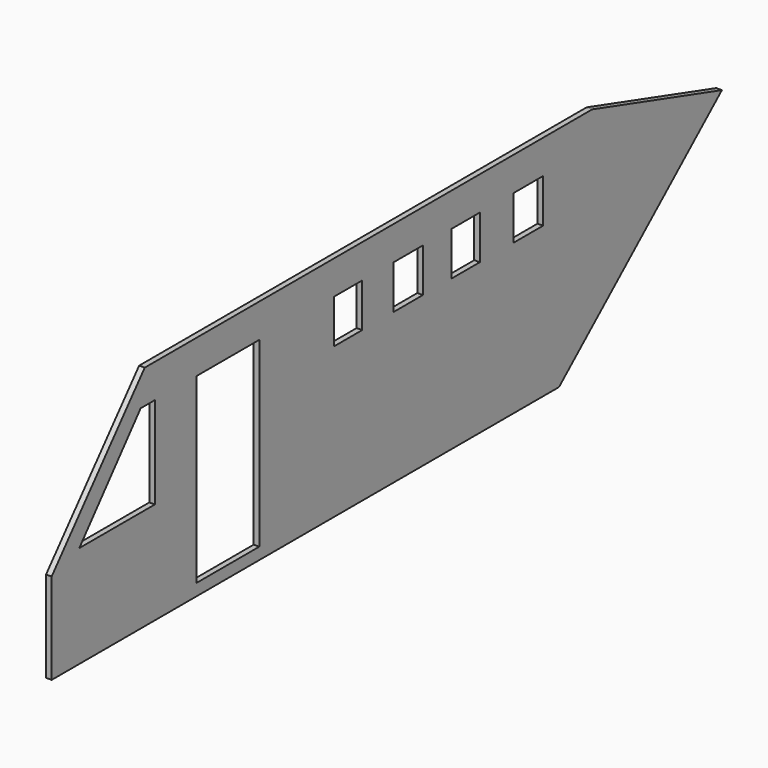
from build123d import *

# Parameters (mm, degrees)
F1_DEPTH = 1.5
F2_W     = 21.121388
F2_H     = 49.146654
F2_W_2   = 9.488664
F2_H_2   = 11.803286
F2_W_3   = 9.919964
F2_W_4   = 9.919956
F3_DEPTH = 1.5


with BuildPart() as f1:
    # F0 (on Right) → F1 (new body)
    with BuildSketch(Plane.YZ):
        Polygon((-80.233574, -9.394377), (-80.233574, -33.967704), (90.941433, -33.967704), (145.892367, 14.248275), (102.09786, 27.465614), (-48.834328, 27.465614), align=None)
    extrude(amount=F1_DEPTH)

    # F2 (on face) → F3 (cut)
    with BuildSketch(Plane.YZ.offset(1.5)):
        Polygon((-50.199509, 18.364381), (-70.904814, -6.436477), (-45.421362, -6.436477), (-45.421362, 18.364381), align=None)
        with Locations((-20.753761, -6.208946)):
            Rectangle(F2_W, F2_H)
        with Locations((19.782484, 12.462738)):
            Rectangle(F2_W_2, F2_H_2)
        with Locations((40.053718, 12.462738)):
            Rectangle(F2_W_3, F2_H_2)
        with Locations((59.46235, 12.462738)):
            Rectangle(F2_W_2, F2_H_2)
        with Locations((80.596194, 12.462738)):
            Rectangle(F2_W_4, F2_H_2)
    extrude(amount=-F3_DEPTH, mode=Mode.SUBTRACT)


solid = f1.part
